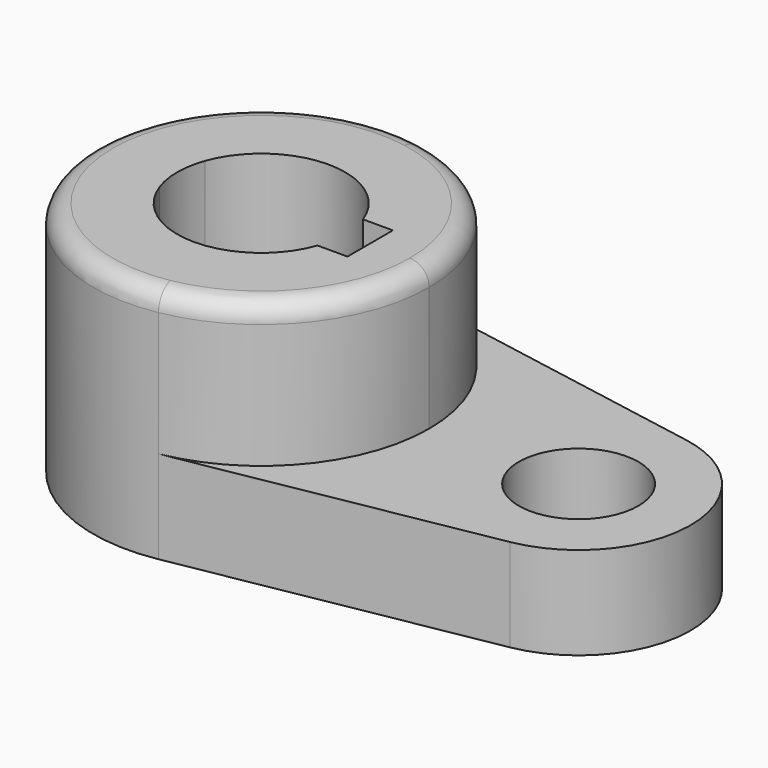
from build123d import *

# Parameters (mm, degrees)
F1_DEPTH = 15.84
F2_DEPTH = 6.21
F3_R     = 1.3


with BuildPart() as f1:
    # F0 (on Top) → F1 (new body)
    with BuildSketch(Plane.XY):
        with BuildLine():
            ThreePointArc((1.985294, -11.073442), (8.628356, -7.219001), (11.25, 0))
            ThreePointArc((11.25, 0), (8.628356, 7.219001), (1.985294, 11.073442))
            ThreePointArc((1.985294, 11.073442), (-11.25, 0), (1.985294, -11.073442))
        make_face()
        with BuildLine():
            ThreePointArc((-5.294396, -1.9), (-5.625, 0), (-5.294396, 1.9))
            ThreePointArc((-5.294396, 1.9), (0, 5.625), (5.294396, 1.9))
            Line((5.294396, 1.9), (7.295, 1.9))
            Line((7.295, 1.9), (7.295, 0))
            Line((7.295, 0), (7.295, -1.9))
            Line((7.295, -1.9), (5.294396, -1.9))
            ThreePointArc((5.294396, -1.9), (0, -5.625), (-5.294396, -1.9))
        make_face(mode=Mode.SUBTRACT)
    extrude(amount=F1_DEPTH)

    # F0 (on Top) → F2 (join)
    with BuildSketch(Plane.XY):
        with BuildLine():
            ThreePointArc((1.985294, 11.073442), (8.628356, 7.219001), (11.25, 0))
            ThreePointArc((11.25, 0), (8.628356, -7.219001), (1.985294, -11.073442))
            Line((1.985294, -11.073442), (22.573529, -7.382294))
            ThreePointArc((22.573529, -7.382294), (28.174792, -2.880495), (27.418746, 4.265744))
            ThreePointArc((27.418746, 4.265744), (25.307311, 6.307791), (22.573529, 7.382294))
            Line((22.573529, 7.382294), (1.985294, 11.073442))
        make_face()
        with BuildLine():
            ThreePointArc((25.25, 0), (17.431624, -1.191639), (24.539998, 2.275063))
            ThreePointArc((24.539998, 2.275063), (25.068376, 1.191639), (25.25, 0))
        make_face(mode=Mode.SUBTRACT)
    extrude(amount=F2_DEPTH)

    # F3
    f3_edges = [f1.edges().sort_by_distance(p)[0] for p in [
        (-1.985294, 11.073442, 15.84),
    ]]
    fillet(f3_edges, radius=F3_R)


solid = f1.part
